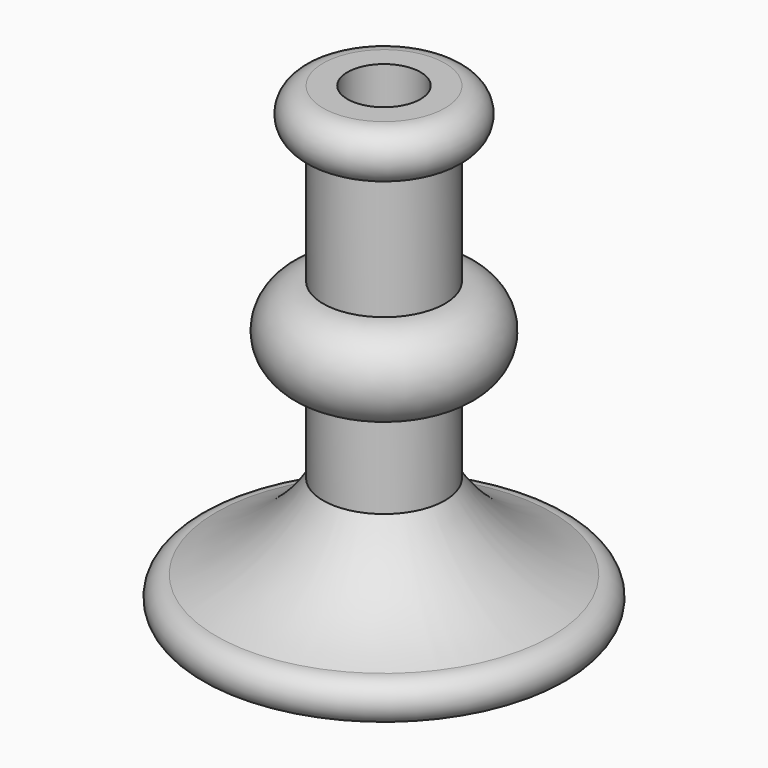
from build123d import *


with BuildPart() as f1:
    # F0 (on Front) → F1 (revolve)
    with BuildSketch(Plane.XZ):
        with BuildLine():
            Line((19.884694, 77.50541), (19.884694, 0))
            Line((19.884694, 0), (59.629317, 0))
            ThreePointArc((59.629317, 0), (64.394954, 4.765636), (59.629317, 9.531273))
            ThreePointArc((59.629317, 9.531273), (45.158864, 17.262962), (34.310384, 29.570825))
            Line((34.310384, 29.570825), (34.310384, 50.088052))
            ThreePointArc((34.310384, 50.088052), (44.579187, 60.356855), (34.310384, 70.625658))
            Line((34.310384, 70.625658), (34.310384, 99.683128))
            ThreePointArc((34.310384, 99.683128), (40.174043, 105.546787), (34.310384, 111.410446))
            Line((34.310384, 111.410446), (28.542275, 111.410446))
            Line((28.542275, 111.410446), (28.542275, 77.50541))
            Line((28.542275, 77.50541), (19.884694, 77.50541))
        make_face()
    revolve(axis=Axis((19.884694, 0, 38.752705), (0, 0, -1)))


solid = f1.part
